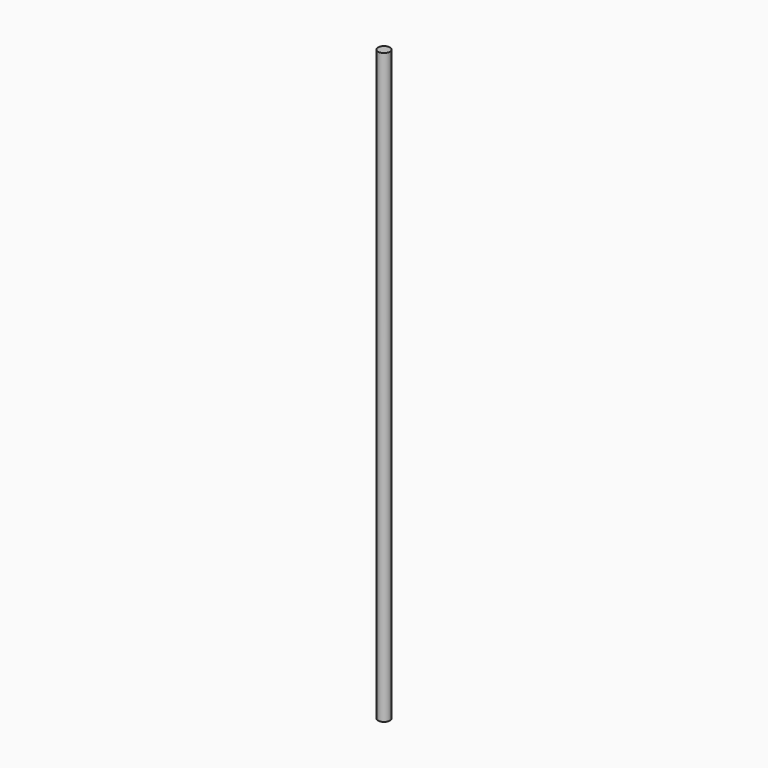
from build123d import *

# Parameters (mm, degrees)
CYLINDER_R     = 3.4
CYLINDER_DEPTH = 340


with BuildPart() as part:
    # Cylinder → Cylinder (new body)
    with BuildSketch(Plane.XY):
        Circle(CYLINDER_R)
    extrude(amount=CYLINDER_DEPTH)


solid = part.part
